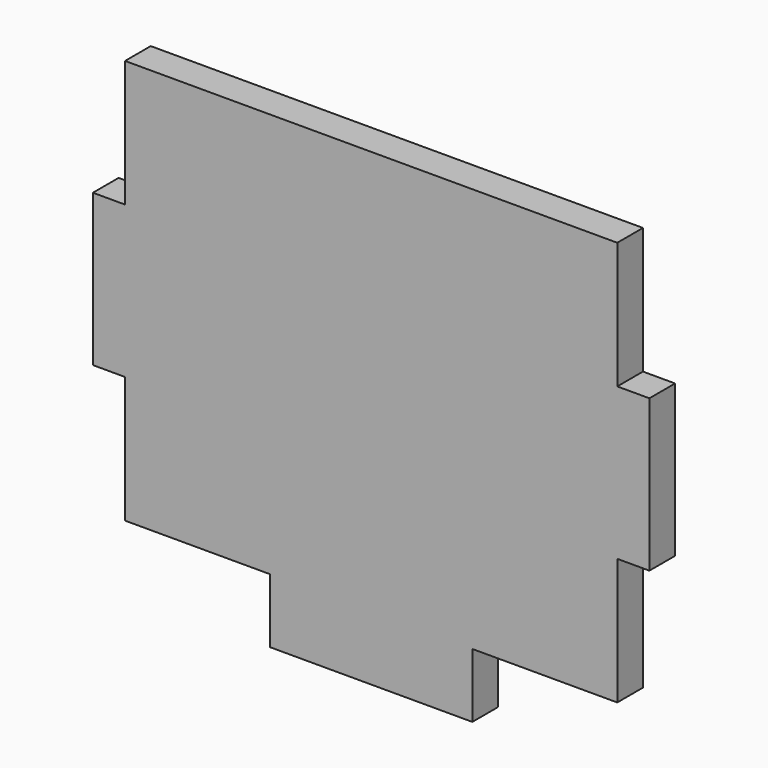
from build123d import *

# Parameters (mm, degrees)
F0_W     = 3.175
F0_H     = 15
F0_W_2   = 20
F0_H_2   = 6.35
F1_DEPTH = 3.175


with BuildPart() as f1:
    # F0 (on Front) → F1 (new body)
    with BuildSketch(Plane.XZ):
        Polygon((24.325, 0), (-24.325, 0), (-24.325, -12.5), (-24.325, -27.5), (-24.325, -40), (-10, -40), (10, -40), (24.325, -40), (24.325, -27.5), (24.325, -12.5), align=None)
        with Locations((25.9125, -20)):
            Rectangle(F0_W, F0_H)
        with Locations((-25.9125, -20)):
            Rectangle(F0_W, F0_H)
        with Locations((0, -43.175)):
            Rectangle(F0_W_2, F0_H_2)
    extrude(amount=F1_DEPTH)


solid = f1.part
